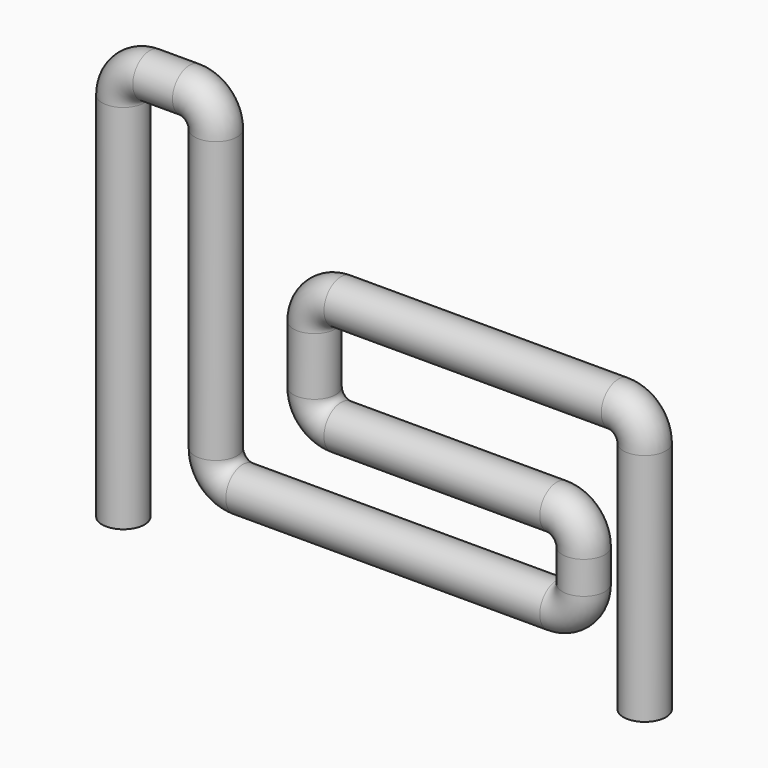
from build123d import *

# Parameters (mm, degrees)
F2_R = 5.0584977116
F4_T = -1.27


with BuildPart() as f3:
    # F3: sweep along a path in F0
    with BuildLine(Plane.XZ) as f3_path:
        Line((-59.1051317751, -51.5853948891), (-59.1051317751, 36.81329211))
        ThreePointArc((-59.1051317751, 36.81329211), (-57.2452598357, 41.3034201705), (-52.7551317751, 43.16329211))
        Line((-52.7551317751, 43.16329211), (-43.2969743693, 43.16329211))
        ThreePointArc((-43.2969743693, 43.16329211), (-38.8068463088, 41.3034201705), (-36.9469743693, 36.81329211))
        Line((-36.9469743693, 36.81329211), (-36.9469743693, -29.9953949791))
        ThreePointArc((-36.9469743693, -29.9953949791), (-35.0871024298, -34.4855230397), (-30.5969743693, -36.3453949791))
        Line((-30.5969743693, -36.3453949791), (44.1325009954, -36.3453949791))
        ThreePointArc((44.1325009954, -36.3453949791), (48.6226290559, -34.4855230397), (50.4825009954, -29.9953949791))
        Line((50.4825009954, -29.9953949791), (50.4825009954, -22.2417109472))
        ThreePointArc((50.4825009954, -22.2417109472), (48.6226290559, -17.7515828866), (44.1325009954, -15.8917109472))
        Line((44.1325009954, -15.8917109472), (-7.2356599557, -15.8917109472))
        ThreePointArc((-7.2356599557, -15.8917109472), (-11.7257880163, -14.0318390077), (-13.5856599557, -9.5417109472))
        Line((-13.5856599557, -9.5417109472), (-13.5856599557, 4.2277637112))
        ThreePointArc((-13.5856599557, 4.2277637112), (-11.7257880163, 8.7178917717), (-7.2356599557, 10.5777637112))
        Line((-7.2356599557, 10.5777637112), (58.7709205389, 10.5777637112))
        ThreePointArc((58.7709205389, 10.5777637112), (63.2610485994, 8.7178917717), (65.1209205389, 4.2277637112))
        Line((65.1209205389, 4.2277637112), (65.1209205389, -51.5853948891))
    # F2 (on line) → F3 (sweep)
    with BuildSketch(Plane.XY.offset(-51.5853948891)):
        with Locations((-59.0424388647, 0)):
            Circle(F2_R)
    sweep(path=f3_path.line)

    # F4
    f4_openings = [f3.faces().sort_by_distance(p)[0] for p in [
        (-59.042439, 0, -51.585395),
        (65.058228, 0, -51.585395),
    ]]
    offset(amount=F4_T, openings=f4_openings)


solid = f3.part
